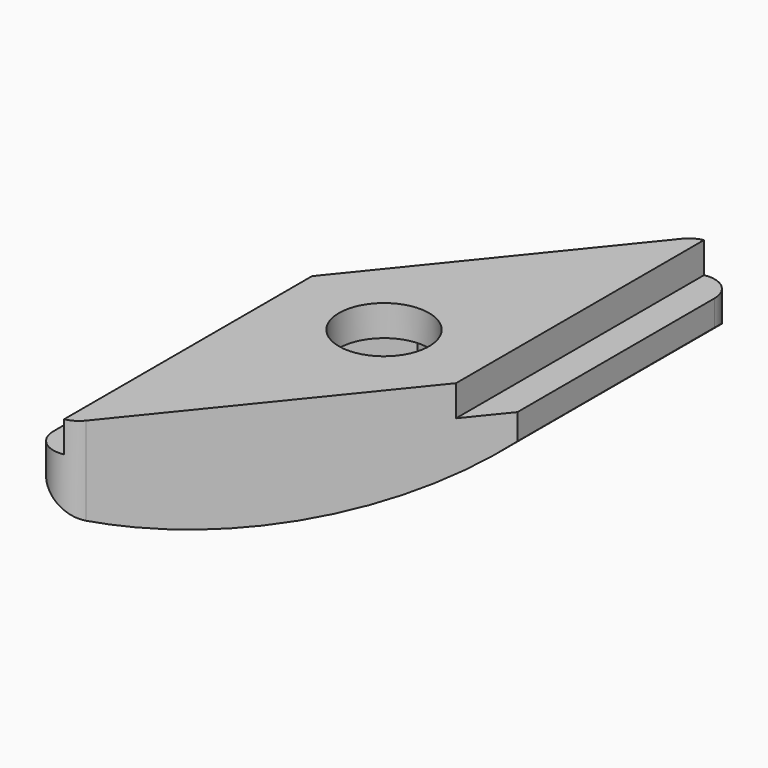
from build123d import *

# Parameters (mm, degrees)
PAD_DEPTH       = 12.5
POCKET_DEPTH    = 4.201
SKETCH003_R     = 1.75
POCKET001_DEPTH = 4.201
POCKET002_DEPTH = 3
FILLET_R        = 1


with BuildPart() as part:
    # Sketch → Pad (new body, symmetric)
    with BuildSketch(Plane.XZ):
        with BuildLine():
            Line((-3.9, 2.2), (3.9, 2.2))
            Line((3.9, 2.2), (3.9, 1))
            Line((3.9, 1), (5.1, 1))
            Line((5.1, 1), (5.1, 0))
            ThreePointArc((-5.1, 0), (0, -2), (5.1, 0))
            Line((-5.1, 0), (-5.1, 1))
            Line((-5.1, 1), (-3.9, 1))
            Line((-3.9, 1), (-3.9, 2.2))
        make_face()
    extrude(amount=PAD_DEPTH, both=True)

    # Sketch002 (on Face4 of Pad) → Pocket (cut, through all)
    with BuildSketch(Plane(origin=(0, 0, 2.2), x_dir=(-1, 0, 0), z_dir=(0, 0, 1))):
        Polygon((-5.1, -0.102052), (5.1, 12.5), (-5.1, 12.5), align=None)
        Polygon((-5.1, -12.5), (5.1, 0.102052), (5.1, -12.5), align=None)
    extrude(amount=-POCKET_DEPTH, mode=Mode.SUBTRACT)

    # Sketch003 (on Face8 of Pocket) → Pocket001 (cut, through all)
    with BuildSketch(Plane(origin=(0, 0, 2.2), x_dir=(-1, 0, 0), z_dir=(0, 0, 1))):
        Circle(SKETCH003_R)
    extrude(amount=-POCKET001_DEPTH, mode=Mode.SUBTRACT)

    # Sketch004 (on DatumPlane) → Pocket002 (cut)
    with BuildSketch(Plane.XY.offset(-2)):
        Polygon((3.308847, -0.523478), (2.107769, 2.603807), (-1.201078, 3.127285), (-3.308847, 0.523478), (-2.107769, -2.603807), (1.201078, -3.127285), align=None)
    extrude(amount=POCKET002_DEPTH, mode=Mode.SUBTRACT)

    # Fillet
    fillet_edges = [part.edges().sort_by_distance(p)[0] for p in [
        (5.1, 12.5, 0.5),
        (-5.1, -12.5, 0.5),
    ]]
    fillet(fillet_edges, radius=FILLET_R)


solid = part.part
